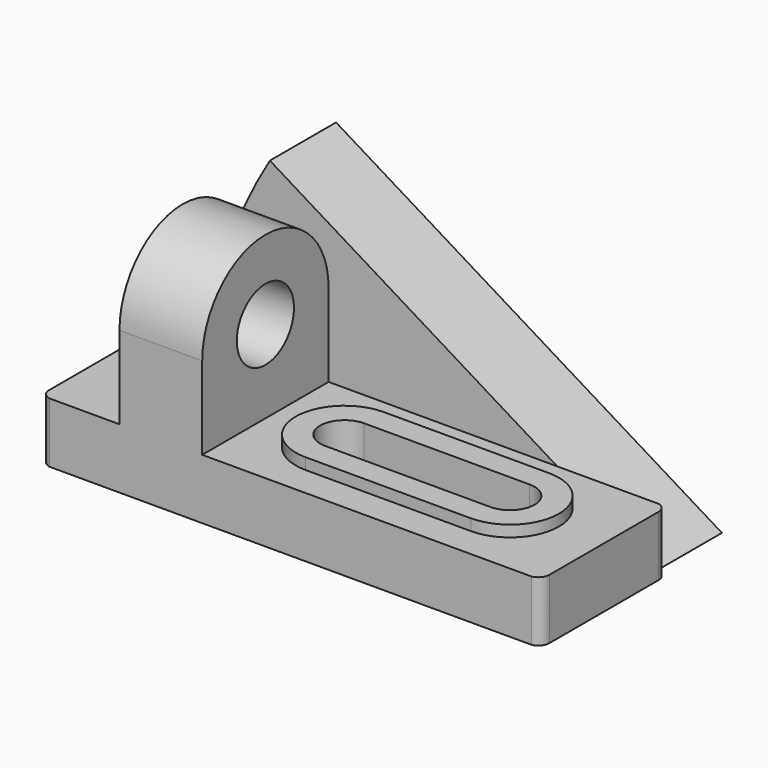
from build123d import *

# Parameters (mm, degrees)
F0_W      = 42
F0_H      = 16
F1_DEPTH  = 112
F2_W      = 42
F2_H      = 22
F3_DEPTH  = 22
F4_R      = 9.5
F5_DEPTH  = 25
F6_W      = 42
F6_H      = 16
F7_DEPTH  = 21
F9_DEPTH  = 3
F11_DEPTH = 58
F13_DEPTH = 54
F15_DEPTH = 22


with BuildPart() as f1:
    # F0 (on Right) → F1 (new body)
    with BuildSketch(Plane.YZ):
        with Locations((-21, 8)):
            Rectangle(F0_W, F0_H)
    extrude(amount=F1_DEPTH)

    # F2 (on face) → F3 (join)
    with BuildSketch(Plane(origin=(0, 0, 0), x_dir=(0, -1, 0), z_dir=(-1, 0, 0))):
        with Locations((21, 27)):
            Rectangle(F2_W, F2_H)
        with BuildLine():
            ThreePointArc((42, 38), (21, 59), (0, 38))
            Line((0, 38), (42, 38))
        make_face()
    extrude(amount=-F3_DEPTH)

    # F4 (on face) → F5 (cut)
    with BuildSketch(Plane(origin=(0, 0, 0), x_dir=(0, -1, 0), z_dir=(-1, 0, 0))):
        with Locations((21, 38)):
            Circle(F4_R)
    extrude(amount=-F5_DEPTH, mode=Mode.SUBTRACT)

    # F6 (on face) → F7 (join)
    with BuildSketch(Plane(origin=(0, 0, 0), x_dir=(0, -1, 0), z_dir=(-1, 0, 0))):
        with Locations((21, 8)):
            Rectangle(F6_W, F6_H)
    extrude(amount=F7_DEPTH)

    # F8 (on face) → F9 (join)
    with BuildSketch(Plane.XY.offset(16)):
        with BuildLine():
            Line((87, -7.931874), (43, -7.931874))
            ThreePointArc((43, -7.931874), (30, -20.931874), (43, -33.931874))
            Line((43, -33.931874), (87, -33.931874))
            ThreePointArc((87, -33.931874), (100, -20.931874), (87, -7.931874))
        make_face()
    extrude(amount=F9_DEPTH)

    # F10 (on face) → F11 (cut)
    with BuildSketch(Plane.XY.offset(19)):
        with BuildLine():
            Line((87, -14.431874), (43, -14.431874))
            ThreePointArc((43, -14.431874), (36.5, -20.931874), (43, -27.431874))
            Line((43, -27.431874), (87, -27.431874))
            ThreePointArc((87, -27.431874), (93.5, -20.931874), (87, -14.431874))
        make_face()
    extrude(amount=-F11_DEPTH, mode=Mode.SUBTRACT)

    # F12 (on Top) → F13 (cut)
    with BuildSketch(Plane.XY):
        with BuildLine():
            Line((-18.401096, 0), (-17.609082, 0))
            ThreePointArc((-17.609082, 0), (-18.005089, 0.026252), (-18.401096, 0))
        make_face()
        with BuildLine():
            Line((-21, -39.485341), (-21, -38.642563))
            ThreePointArc((-21, -38.642563), (-21.029742, -39.063952), (-21, -39.485341))
        make_face()
        with BuildLine():
            ThreePointArc((-18.645877, -42), (-20.219818, -41.114213), (-21, -39.485341))
            Line((-21, -39.485341), (-21, -42))
            Line((-21, -42), (-18.645877, -42))
        make_face()
        with BuildLine():
            Line((108.139321, 0), (109.862531, 0))
            ThreePointArc((109.862531, 0), (109.000926, 0.126389), (108.139321, 0))
        make_face()
        with BuildLine():
            ThreePointArc((109.862531, 0), (111.385234, -1.052876), (112, -2.799083))
            Line((112, -2.799083), (112, 0))
            Line((112, 0), (109.862531, 0))
        make_face()
        with BuildLine():
            ThreePointArc((112, -39.063952), (111.330671, -40.953771), (109.620459, -42))
            Line((109.620459, -42), (112.000891, -42))
            Line((112.000891, -42), (112, -39.063952))
        make_face()
    extrude(amount=F13_DEPTH, mode=Mode.SUBTRACT)

    # F14 (on face) → F15 (join)
    with BuildSketch(Plane(origin=(0, 0, 0), x_dir=(-1, 0, 0), z_dir=(0, 1, 0))):
        with BuildLine():
            Line((-108.998536, 0), (11.137469, 0))
            ThreePointArc((11.137469, 0), (6.672089, 32.568119), (-6.39447, 62.732451))
            Line((-6.39447, 62.732451), (-108.998536, 0))
        make_face()
    extrude(amount=F15_DEPTH)


solid = f1.part
